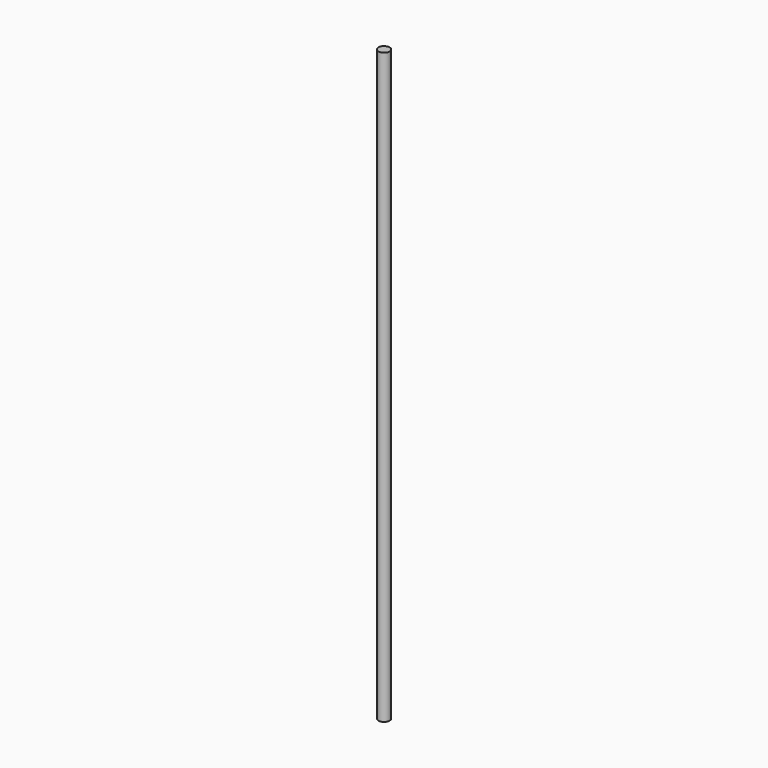
from build123d import *

# Parameters (mm, degrees)
CYLINDER_R     = 3.25
CYLINDER_DEPTH = 340


with BuildPart() as part:
    # Cylinder → Cylinder (new body)
    with BuildSketch(Plane.XY):
        Circle(CYLINDER_R)
    extrude(amount=CYLINDER_DEPTH)


solid = part.part
